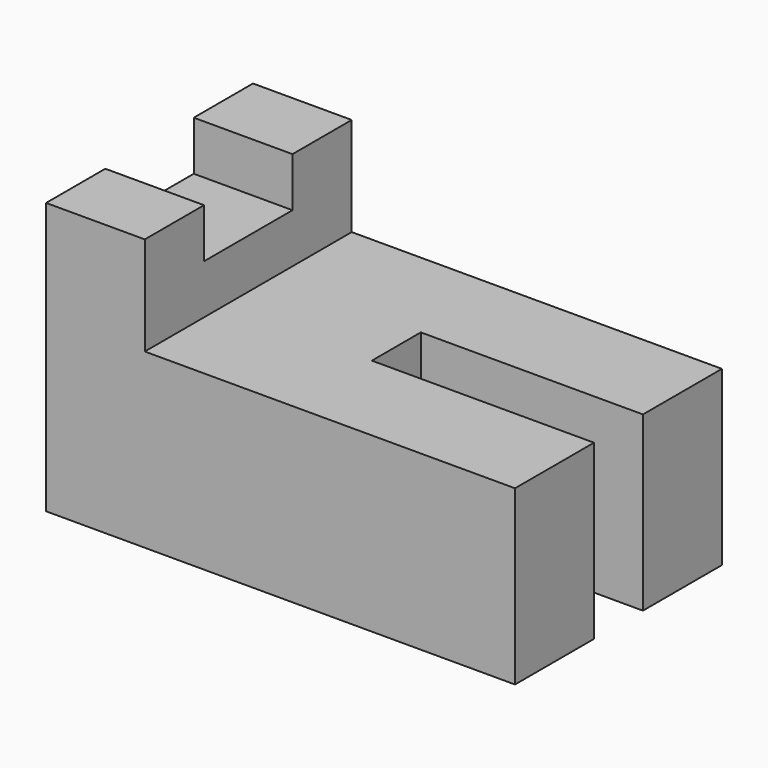
from build123d import *

# Parameters (mm, degrees)
F0_W      = 120.65
F0_H      = 66.548
F1_DEPTH  = 19.05
F2_W      = 25.4
F2_H      = 44.45
F3_DEPTH  = 66.548
F4_W      = 25.4
F4_H      = 66.548
F5_DEPTH  = 25.4
F6_W      = 25.4
F6_H      = 28.0485648255
F7_DEPTH  = 12.7
F8_W      = 25.4
F8_H      = 28.448
F9_DEPTH  = 12.7
F10_W     = 57.15
F10_H     = 15.748
F11_DEPTH = 25.4
F13_DEPTH = 25.4


with BuildPart() as f1:
    # F0 (on Top) → F1 (new body)
    with BuildSketch(Plane.XY):
        with Locations((60.325, -33.274)):
            Rectangle(F0_W, F0_H)
    extrude(amount=F1_DEPTH)

    # F2 (on face) → F3 (join)
    with BuildSketch(Plane.XZ.offset(66.548)):
        with Locations((12.7, 22.225)):
            Rectangle(F2_W, F2_H)
    extrude(amount=-F3_DEPTH)

    # F4 (on face) → F5 (join)
    with BuildSketch(Plane.XY.offset(44.45)):
        with Locations((12.7, -33.274)):
            Rectangle(F4_W, F4_H)
    extrude(amount=F5_DEPTH)

    # F6 (on face) → F7 (join)
    with BuildSketch(Plane.XY.offset(69.85)):
        with Locations((12.7, -33.4737175872)):
            Rectangle(F6_W, F6_H)
    extrude(amount=-F7_DEPTH)

    # F8 (on face) → F9 (cut)
    with BuildSketch(Plane.XY.offset(69.85)):
        with Locations((12.7, -33.274)):
            Rectangle(F8_W, F8_H)
    extrude(amount=-F9_DEPTH, mode=Mode.SUBTRACT)

    # F10 (on face) → F11 (cut)
    with BuildSketch(Plane.XY.offset(19.05)):
        with Locations((92.075, -33.274)):
            Rectangle(F10_W, F10_H)
    extrude(amount=-F11_DEPTH, mode=Mode.SUBTRACT)

    # F12 (on face) → F13 (join)
    with BuildSketch(Plane.XY.offset(19.05)):
        Polygon((88.9, 0), (25.4, 0), (25.4, -66.548), (120.65, -66.548), (120.65, -41.148), (63.5, -41.148), (63.5, -25.4), (120.65, -25.4), (120.65, 0), align=None)
    extrude(amount=F13_DEPTH)


solid = f1.part
